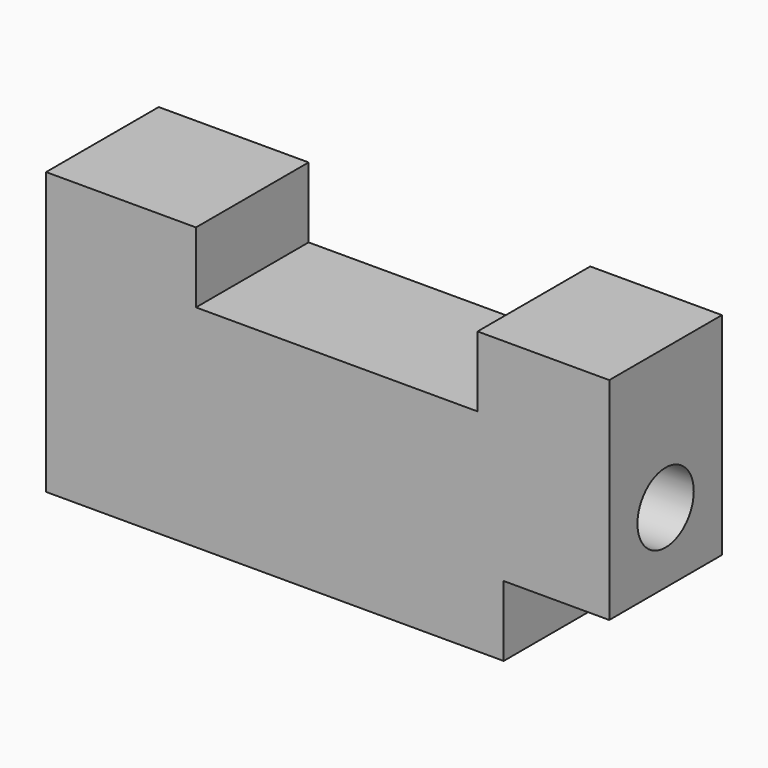
from build123d import *

# Parameters (mm, degrees)
F1_DEPTH = 25.4
F2_R     = 6.35
F3_DEPTH = 101.6


with BuildPart() as f1:
    # F0 (on Front) → F1 (new body)
    with BuildSketch(Plane.XZ):
        Polygon((-23.76237, 25.4), (-50.8, 25.4), (-50.8, -25.4), (31.75, -25.4), (31.75, -12.7), (50.8, -12.7), (50.8, 25.4), (27.03763, 25.4), (27.03763, 12.7), (-23.76237, 12.7), align=None)
    extrude(amount=F1_DEPTH)

    # F2 (on face) → F3 (cut)
    with BuildSketch(Plane.YZ.offset(50.8)):
        with Locations((-12.7, 0)):
            Circle(F2_R)
    extrude(amount=-F3_DEPTH, mode=Mode.SUBTRACT)


solid = f1.part
